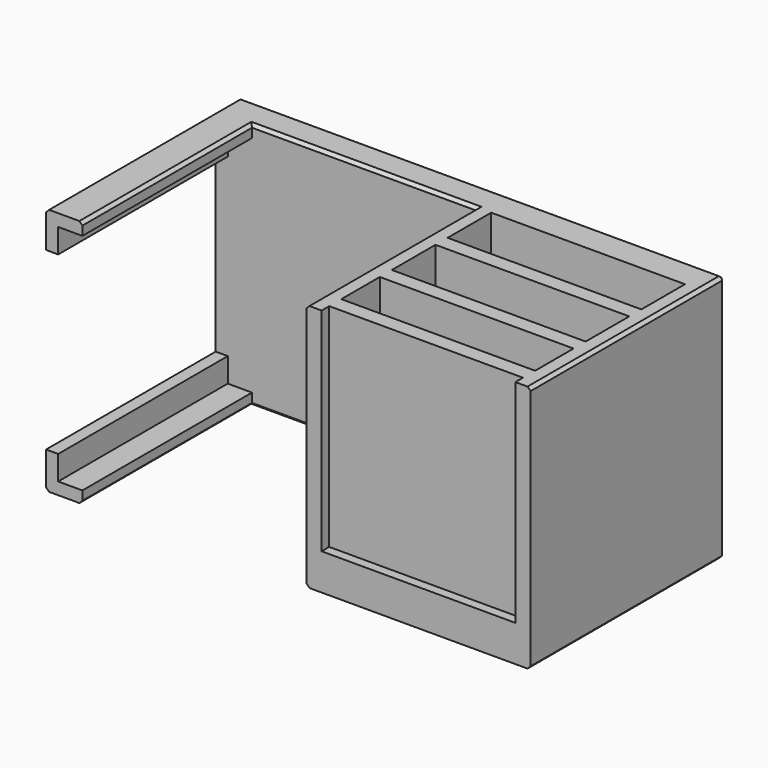
from build123d import *

# Parameters (mm, degrees)
F0_W      = 160
F0_H      = 82
F1_DEPTH  = 10
F2_W      = 12
F2_H      = 12
F3_DEPTH  = 70
F4_W      = 74
F4_H      = 12
F5_DEPTH  = 70
F6_W      = 5
F6_H      = 70
F7_DEPTH  = 70
F8_W      = 64
F8_H      = 5
F9_DEPTH  = 80
F10_W     = 8
F10_H     = 8
F11_DEPTH = 70
F12_W     = 8
F12_H     = 8
F13_DEPTH = 70
F14_SIZE  = 1
F15_SIZE  = 1
F16_SIZE  = 1
F17_SIZE  = 1
F18_SIZE  = 1
F19_SIZE  = 1
F20_SIZE  = 1
F21_SIZE  = 1
F22_SIZE  = 1
F23_SIZE  = 1
F24_SIZE  = 1
F25_SIZE  = 1
F26_SIZE  = 1
F27_SIZE  = 1


with BuildPart() as f1:
    # F0 (on Front) → F1 (new body)
    with BuildSketch(Plane.XZ):
        Rectangle(F0_W, F0_H)
    extrude(amount=F1_DEPTH)

    # F2 (on face) → F3 (join)
    with BuildSketch(Plane.XZ.offset(10)):
        with Locations((-74, 35)):
            Rectangle(F2_W, F2_H)
        with Locations((-74, -35)):
            Rectangle(F2_W, F2_H)
    extrude(amount=F3_DEPTH)

    # F4 (on face) → F5 (join)
    with BuildSketch(Plane.XZ.offset(10)):
        with Locations((43, -35)):
            Rectangle(F4_W, F4_H)
    extrude(amount=F5_DEPTH)

    # F6 (on face) → F7 (join)
    with BuildSketch(Plane.XZ.offset(10)):
        with Locations((8.5, 6)):
            Rectangle(F6_W, F6_H)
        with Locations((77.5, 6)):
            Rectangle(F6_W, F6_H)
    extrude(amount=F7_DEPTH)

    # F8 (on face) → F9 (join)
    with BuildSketch(Plane.XY.offset(41)):
        with Locations((43, -30.5)):
            Rectangle(F8_W, F8_H)
        with Locations((43, -53.5)):
            Rectangle(F8_W, F8_H)
        with Locations((43, -74.3680498004)):
            Rectangle(F8_W, F8_H)
    extrude(amount=-F9_DEPTH)

    # F10 (on face) → F11 (cut)
    with BuildSketch(Plane.XZ.offset(80)):
        with Locations((-72, 33)):
            Rectangle(F10_W, F10_H)
    extrude(amount=-F11_DEPTH, mode=Mode.SUBTRACT)

    # F12 (on face) → F13 (cut)
    with BuildSketch(Plane.XZ.offset(80)):
        with Locations((-72, -33)):
            Rectangle(F12_W, F12_H)
    extrude(amount=-F13_DEPTH, mode=Mode.SUBTRACT)

    # F14
    f14_edges = [f1.edges().sort_by_distance(p)[0] for p in [
        (-80, 0, 0),
    ]]
    chamfer(f14_edges, length=F14_SIZE)

    # F15
    f15_edges = [f1.edges().sort_by_distance(p)[0] for p in [
        (0.5, 0, 41),
    ]]
    chamfer(f15_edges, length=F15_SIZE)

    # F16
    f16_edges = [f1.edges().sort_by_distance(p)[0] for p in [
        (80, 0, -0.5),
    ]]
    chamfer(f16_edges, length=F16_SIZE)

    # F17
    f17_edges = [f1.edges().sort_by_distance(p)[0] for p in [
        (0, 0, -41),
    ]]
    chamfer(f17_edges, length=F17_SIZE)

    # F18
    f18_edges = [f1.edges().sort_by_distance(p)[0] for p in [
        (-80, -40.5, 41),
    ]]
    chamfer(f18_edges, length=F18_SIZE)

    # F19
    f19_edges = [f1.edges().sort_by_distance(p)[0] for p in [
        (80, -40.5, 41),
    ]]
    chamfer(f19_edges, length=F19_SIZE)

    # F20
    f20_edges = [f1.edges().sort_by_distance(p)[0] for p in [
        (-80, -40.5, -41),
    ]]
    chamfer(f20_edges, length=F20_SIZE)

    # F21
    f21_edges = [f1.edges().sort_by_distance(p)[0] for p in [
        (80, -40.5, -41),
    ]]
    chamfer(f21_edges, length=F21_SIZE)

    # F22
    f22_edges = [f1.edges().sort_by_distance(p)[0] for p in [
        (6, -45, -41),
    ]]
    chamfer(f22_edges, length=F22_SIZE)

    # F23
    f23_edges = [f1.edges().sort_by_distance(p)[0] for p in [
        (-31, -10, -41),
    ]]
    chamfer(f23_edges, length=F23_SIZE)

    # F24
    f24_edges = [f1.edges().sort_by_distance(p)[0] for p in [
        (-68, -45, -41),
    ]]
    chamfer(f24_edges, length=F24_SIZE)

    # F25
    f25_edges = [f1.edges().sort_by_distance(p)[0] for p in [
        (-31, -10, 41),
    ]]
    chamfer(f25_edges, length=F25_SIZE)

    # F26
    f26_edges = [f1.edges().sort_by_distance(p)[0] for p in [
        (-68, -45, 41),
    ]]
    chamfer(f26_edges, length=F26_SIZE)

    # F27
    f27_edges = [f1.edges().sort_by_distance(p)[0] for p in [
        (6, -45, 41),
    ]]
    chamfer(f27_edges, length=F27_SIZE)


solid = f1.part
